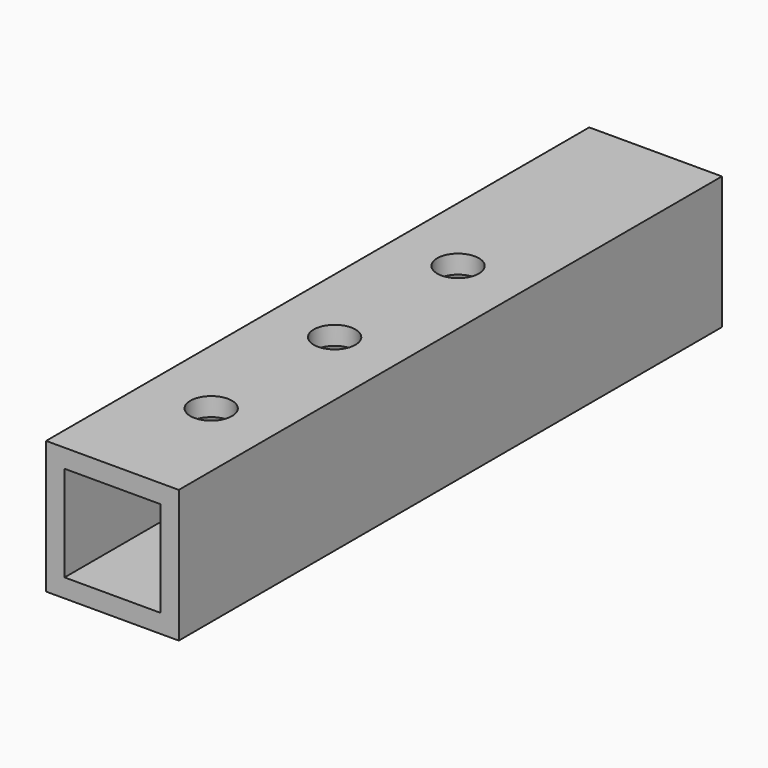
from build123d import *

# Parameters (mm, degrees)
F0_W     = 21.5
F0_H     = 21.5
F0_W_2   = 15.5
F0_H_2   = 15.5
F1_DEPTH = 110
F2_R     = 3.375
F3_DEPTH = 5


with BuildPart() as f1:
    # F0 (on Front) → F1 (new body)
    with BuildSketch(Plane.XZ):
        with Locations((-61.718121, 51.461651)):
            Rectangle(F0_W, F0_H)
        with Locations((-61.718121, 51.461651)):
            Rectangle(F0_W_2, F0_H_2, mode=Mode.SUBTRACT)
    extrude(amount=F1_DEPTH)

    # F2 (on face) → F3 (cut)
    with BuildSketch(Plane.XY.offset(62.211651)):
        with Locations((-61.718121, -90)):
            Circle(F2_R)
        with Locations((-61.718121, -65)):
            Circle(F2_R)
        with Locations((-61.718121, -40)):
            Circle(F2_R)
    extrude(amount=-F3_DEPTH, mode=Mode.SUBTRACT)


solid = f1.part
